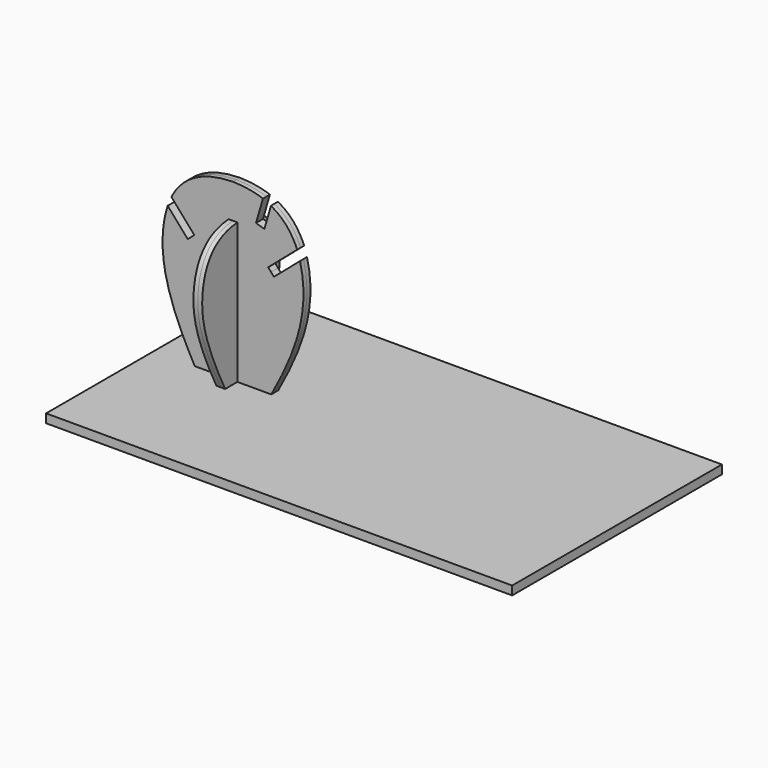
from build123d import *

# Parameters (mm, degrees)
F2_DEPTH  = 1.5
F3_W      = 3
F3_H      = 60
F4_DEPTH  = 12.5
F6_DEPTH  = 1.5
F7_W      = 3
F7_H      = 118.8950859686
F8_DEPTH  = 25.6788023262
F9_W      = 160
F9_H      = 90
F9_W_2    = 7.0525689516
F9_H_2    = 3
F9_W_3    = 3
F9_H_3    = 10.3145539761
F10_DEPTH = 3


with BuildPart() as f2:
    # F1 (on Front) → F2 (new body, symmetric)
    with BuildSketch(Plane.XZ):
        with BuildLine():
            add(Edge.make_bspline(
                [(0, 60), (17.6886934787, 59.6921108663), (28.8150999704, 36.4639480961), (21.0301392591, 14.3927453736), (13.1268969518, 0)],
                knots=[0, 0, 0, 0, 0.4769048689, 1, 1, 1, 1], degree=3))
            add(Edge.make_bspline(
                [(0, 60), (-17.6886934787, 59.6921108663), (-28.8150999704, 36.4639480961), (-21.0301392591, 14.3927453736), (-13.1268969518, 0)],
                knots=[0, 0, 0, 0, 0.4769048689, 1, 1, 1, 1], degree=3))
            Line((-13.1268969518, 0), (-11.4066828974, 0))
            Line((-11.4066828974, 0), (-11.4066828974, -3))
            Line((-11.4066828974, -3), (-4.3541139457, -3))
            Line((-4.3541139457, -3), (-4.3541139457, 0))
            Line((-4.3541139457, 0), (-1.3768739169, 0))
            Line((-1.3768739169, 0), (1.6231260831, 0))
            Line((1.6231260831, 0), (4.3541139457, 0))
            Line((4.3541139457, 0), (4.3541139457, -3))
            Line((4.3541139457, -3), (11.4066828974, -3))
            Line((11.4066828974, -3), (11.4066828974, 0))
            Line((11.4066828974, 0), (13.1268969518, 0))
        make_face()
    extrude(amount=F2_DEPTH, both=True)

    # F3 (on Front) → F4 (cut, symmetric)
    with BuildSketch(Plane.XZ):
        Polygon((-29.232794809, 55.5032887742), (-30.3615614893, 54.5154194603), (-15.5521072394, 37.5937292362), (-14.423340559, 38.5815985501), (-13.2945738787, 39.569467864), (-28.1040281286, 56.4911580881), align=None)
        Polygon((9.3295652531, 49.6656731565), (10.7697102072, 49.2461704614), (15.4308512639, 65.2477810624), (13.9907063099, 65.6672837575), (12.5505613558, 66.0867864526), (7.889420299, 50.0851758516), align=None)
        Polygon((14.0412059324, 35.8228163902), (33.0070190747, 52.1107853198), (32.0297409389, 53.2487341083), (31.0524628031, 54.3866828969), (12.0866496609, 38.0987139673), (13.0639277966, 36.9607651787), align=None)
        Rectangle(F3_W, F3_H)
    extrude(amount=F4_DEPTH, both=True, mode=Mode.SUBTRACT)


with BuildPart() as f6:
    # F5 (on Right) → F6 (new body, symmetric)
    with BuildSketch(Plane.YZ):
        with BuildLine():
            add(Edge.make_bspline(
                [(0, 48.2573099434), (11.0439748989, 48.1600549317), (20.0297831515, 33.0199316806), (14.8643427644, 16.1332041346), (6.7557687632, 0)],
                knots=[0, 0, 0, 0, 0.4338424438, 1, 1, 1, 1], degree=3))
            add(Edge.make_bspline(
                [(0, 48.2573099434), (-11.0439748989, 48.1600549317), (-20.0297831515, 33.0199316806), (-14.8643427644, 16.1332041346), (-6.7557687632, 0)],
                knots=[0, 0, 0, 0, 0.4338424438, 1, 1, 1, 1], degree=3))
            Line((-6.7557687632, 0), (-5.157276988, 0))
            Line((-5.157276988, 0), (-5.157276988, -3))
            Line((-5.157276988, -3), (5.157276988, -3))
            Line((5.157276988, -3), (5.157276988, 0))
            Line((5.157276988, 0), (6.7557687632, 0))
        make_face()
    extrude(amount=F6_DEPTH, both=True)

    # F7 (on face) → F8 (cut, through all)
    with BuildSketch(Plane(origin=(-1.5, 0, 0), x_dir=(0, -1, 0), z_dir=(-1, 0, 0))):
        with Locations((0, 89.4475429843)):
            Rectangle(F7_W, F7_H)
    extrude(amount=-F8_DEPTH, mode=Mode.SUBTRACT)


with BuildPart() as f10:
    # F9 (on face) → F10 (new body)
    with BuildSketch(Plane(origin=(0, 0, -3), x_dir=(1, 0, 0), z_dir=(0, 0, -1))):
        with Locations((52.8585895896, 2.7859684825)):
            Rectangle(F9_W, F9_H)
        with Locations((-7.8803984215, 0)):
            Rectangle(F9_W_2, F9_H_2, mode=Mode.SUBTRACT)
        Rectangle(F9_W_3, F9_H_3, mode=Mode.SUBTRACT)
        with Locations((7.8803984215, 0)):
            Rectangle(F9_W_2, F9_H_2, mode=Mode.SUBTRACT)
    extrude(amount=-F10_DEPTH)


solid = Compound([f2.part, f6.part, f10.part])
